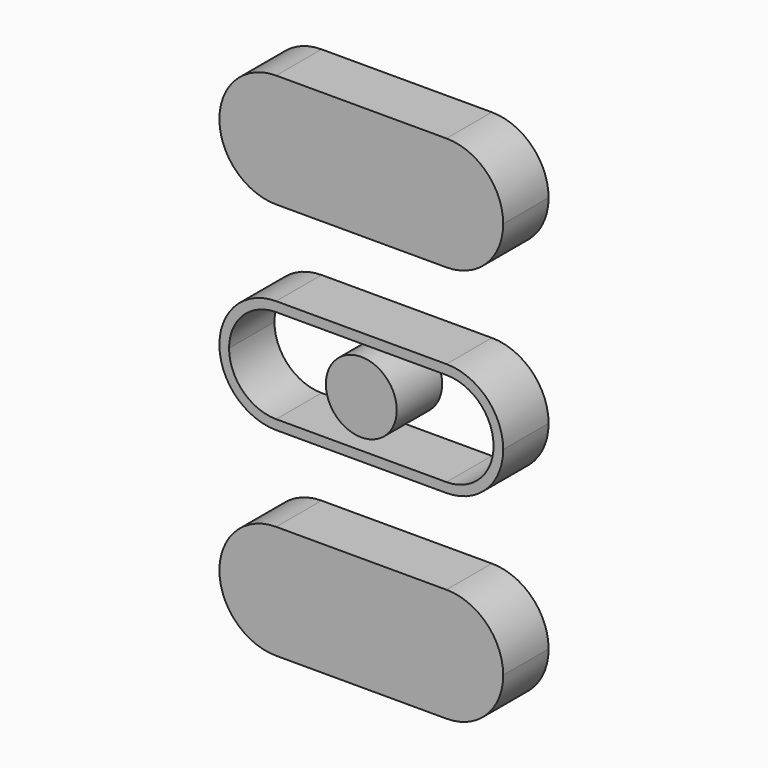
from build123d import *

# Parameters (mm, degrees)
F1_DEPTH = 10
F0_R     = 6.2483887498


with BuildPart() as f1:
    # F0 (on Front) → F1 (new body)
    with BuildSketch(Plane.XZ):
        with BuildLine():
            Line((-15, 25), (15, 25))
            ThreePointArc((15, 25), (22.0710678119, 27.9289321881), (25, 35))
            ThreePointArc((25, 35), (22.0710678119, 42.0710678119), (15, 45))
            Line((15, 45), (-15, 45))
            ThreePointArc((-15, 45), (-22.0710678119, 42.0710678119), (-25, 35))
            ThreePointArc((-25, 35), (-22.0710678119, 27.9289321881), (-15, 25))
        make_face()
    extrude(amount=F1_DEPTH)


with BuildPart() as f1b:
    # F0 (on Front) → F1, piece 2 (new body)
    with BuildSketch(Plane.XZ):
        Circle(F0_R)
    extrude(amount=F1_DEPTH)


with BuildPart() as f1c:
    # F0 (on Front) → F1, piece 3 (new body)
    with BuildSketch(Plane.XZ):
        with BuildLine():
            ThreePointArc((25, 0), (22.0710678119, 7.0710678119), (15, 10))
            Line((15, 10), (-15, 10))
            ThreePointArc((-15, 10), (-22.0710678119, 7.0710678119), (-25, 0))
            ThreePointArc((-25, 0), (-22.0710678119, -7.0710678119), (-15, -10))
            Line((-15, -10), (10.1771699265, -10))
            Line((10.1771699265, -10), (15, -10))
            ThreePointArc((15, -10), (22.0710678119, -7.0710678119), (25, 0))
        make_face()
        with BuildLine():
            ThreePointArc((15, 8.2999998704), (20.8689861922, 5.8689861922), (23.2999998704, 0))
            ThreePointArc((23.2999998704, 0), (20.8689861922, -5.8689861922), (15, -8.2999998704))
            Line((15, -8.2999998704), (-15, -8.2999998704))
            ThreePointArc((-15, -8.2999998704), (-20.8689861922, -5.8689861922), (-23.2999998704, 0))
            ThreePointArc((-23.2999998704, 0), (-20.8689861922, 5.8689861922), (-15, 8.2999998704))
            Line((-15, 8.2999998704), (15, 8.2999998704))
        make_face(mode=Mode.SUBTRACT)
    extrude(amount=F1_DEPTH)


with BuildPart() as f1d:
    # F0 (on Front) → F1, piece 4 (new body)
    with BuildSketch(Plane.XZ):
        with BuildLine():
            ThreePointArc((15, -45), (22.0710678119, -42.0710678119), (25, -35))
            ThreePointArc((25, -35), (22.0710678119, -27.9289321881), (15, -25))
            Line((15, -25), (-15, -25))
            ThreePointArc((-15, -25), (-22.0710678119, -27.9289321881), (-25, -35))
            ThreePointArc((-25, -35), (-22.0710678119, -42.0710678119), (-15, -45))
            Line((-15, -45), (15, -45))
        make_face()
    extrude(amount=F1_DEPTH)


solid = Compound([f1.part, f1b.part, f1c.part, f1d.part])
